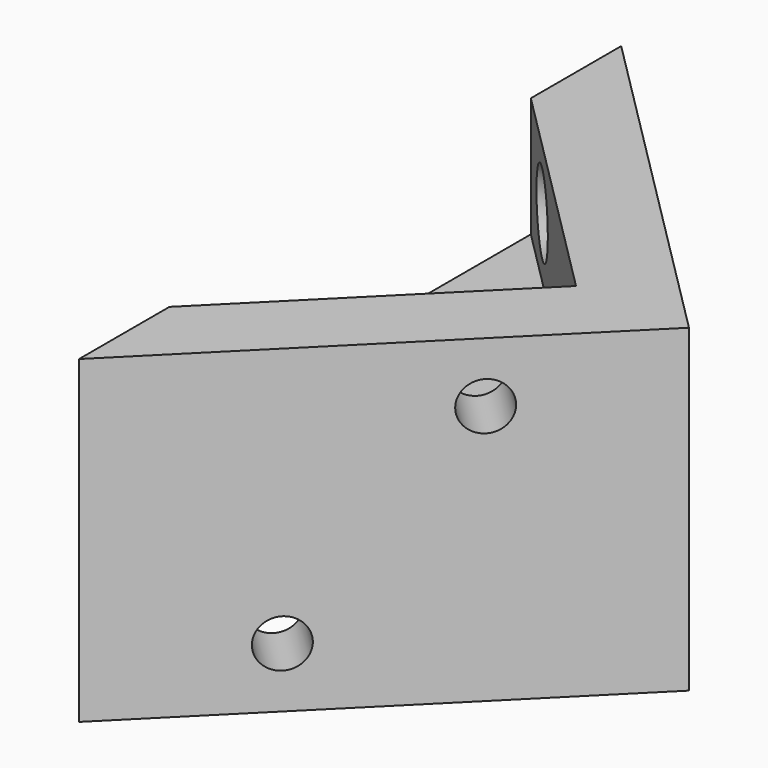
from build123d import *

# Parameters (mm, degrees)
PAD_DEPTH       = 20
POCKET_DEPTH    = 7.5
POCKET001_DEPTH = 7.5
SKETCH003_R     = 1.5
POCKET002_DEPTH = 5
SKETCH004_R     = 1.5
POCKET003_DEPTH = 5
CHAMFER_SIZE    = 1


with BuildPart() as part:
    # Sketch → Pad (new body)
    with BuildSketch(Plane.XY):
        Polygon((21.213203, 0), (0, 21.213203), (0, -21.213203), align=None)
    extrude(amount=PAD_DEPTH)

    # Sketch001 (on Face5 of Pad) → Pocket (cut)
    with BuildSketch(Plane.XY.offset(20)):
        Polygon((14.142136, 0), (0, 14.142136), (0, -14.142136), align=None)
    extrude(amount=-POCKET_DEPTH, mode=Mode.SUBTRACT)

    # Sketch002 (on Face4 of Pocket) → Pocket001 (cut)
    with BuildSketch(Plane(origin=(0, 0, 0), x_dir=(1, 0, 0), z_dir=(0, 0, -1))):
        Polygon((14.142136, 0), (0, 14.142136), (0, -14.142136), align=None)
    extrude(amount=-POCKET001_DEPTH, mode=Mode.SUBTRACT)

    # Sketch003 (on Face6 of Pocket001) → Pocket002 (cut)
    with BuildSketch(Plane(origin=(7.071068, 7.071068, 0), x_dir=(0.707107, -0.707107, 0), z_dir=(-0.707107, -0.707107, 0))):
        with Locations((-5, 16.25)):
            Circle(SKETCH003_R)
        with Locations((5, 3.75)):
            Circle(SKETCH003_R)
    extrude(amount=-POCKET002_DEPTH, mode=Mode.SUBTRACT)

    # Sketch004 (on Face10 of Pocket002) → Pocket003 (cut)
    with BuildSketch(Plane(origin=(7.071068, -7.071068, 0), x_dir=(-0.707107, -0.707107, 0), z_dir=(-0.707107, 0.707107, 0))):
        with Locations((-5, 16.25)):
            Circle(SKETCH004_R)
        with Locations((5, 3.75)):
            Circle(SKETCH004_R)
    extrude(amount=-POCKET003_DEPTH, mode=Mode.SUBTRACT)

    # Chamfer
    chamfer_edges = [part.edges().sort_by_distance(p)[0] for p in [
        (11.667262, -2.474874, 16.25),
        (9.545942, 4.596194, 3.75),
        (4.596194, -9.545942, 3.75),
        (2.474874, 11.667262, 16.25),
    ]]
    chamfer(chamfer_edges, length=CHAMFER_SIZE)


solid = part.part
